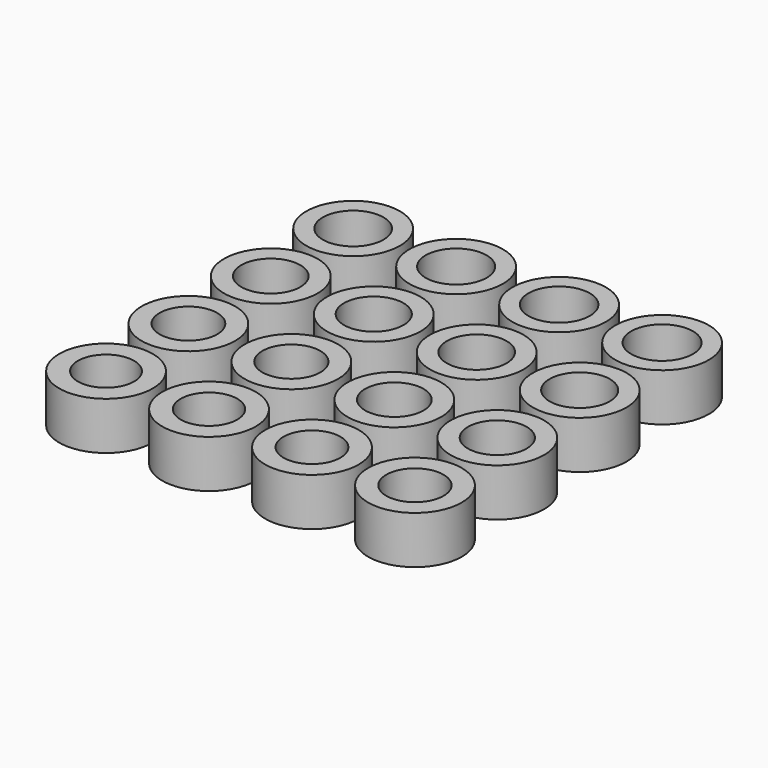
from build123d import *

# Parameters (mm, degrees)
F0_R     = 25
F0_R_2   = 15
F1_DEPTH = 25.5
F0_R_3   = 15.4
F0_R_4   = 15.8
F0_R_5   = 16.2
F0_R_6   = 15.5
F0_R_7   = 15.9
F0_R_8   = 16.3
F0_R_9   = 15.2
F0_R_10  = 15.6
F0_R_11  = 16
F0_R_12  = 16.4
F0_R_13  = 15.3
F0_R_14  = 15.7
F0_R_15  = 16.1
F0_R_16  = 16.5


with BuildPart() as f1:
    # F0 (on Top) → F1 (new body)
    with BuildSketch(Plane.XY):
        with Locations((-156.6073745489, 0)):
            Circle(F0_R)
        with Locations((-156.6073745489, 0)):
            Circle(F0_R_2, mode=Mode.SUBTRACT)
    extrude(amount=F1_DEPTH)


with BuildPart() as f1b:
    # F0 (on Top) → F1, piece 2 (new body)
    with BuildSketch(Plane.XY):
        with Locations((-156.6073745489, 55)):
            Circle(F0_R)
        with Locations((-156.6073745489, 55)):
            Circle(F0_R_3, mode=Mode.SUBTRACT)
    extrude(amount=F1_DEPTH)


with BuildPart() as f1c:
    # F0 (on Top) → F1, piece 3 (new body)
    with BuildSketch(Plane.XY):
        with Locations((-156.6073745489, 110)):
            Circle(F0_R)
        with Locations((-156.6073745489, 110)):
            Circle(F0_R_4, mode=Mode.SUBTRACT)
    extrude(amount=F1_DEPTH)


with BuildPart() as f1d:
    # F0 (on Top) → F1, piece 4 (new body)
    with BuildSketch(Plane.XY):
        with Locations((-156.6073745489, 165)):
            Circle(F0_R)
        with Locations((-156.6073745489, 165)):
            Circle(F0_R_5, mode=Mode.SUBTRACT)
    extrude(amount=F1_DEPTH)


with BuildPart() as f1e:
    # F0 (on Top) → F1, piece 5 (new body)
    with BuildSketch(Plane.XY):
        with Locations((-101.6073745489, 0)):
            Circle(F0_R)
        with BuildLine():
            ThreePointArc((-116.7073745489, 0), (-101.6073745489, 15.1), (-86.5073745489, 0))
            ThreePointArc((-86.5073745489, 0), (-101.6073745489, -15.1), (-116.7073745489, 0))
        make_face(mode=Mode.SUBTRACT)
    extrude(amount=F1_DEPTH)


with BuildPart() as f1f:
    # F0 (on Top) → F1, piece 6 (new body)
    with BuildSketch(Plane.XY):
        with Locations((-101.6073745489, 55)):
            Circle(F0_R)
        with Locations((-101.6073745489, 55)):
            Circle(F0_R_6, mode=Mode.SUBTRACT)
    extrude(amount=F1_DEPTH)


with BuildPart() as f1g:
    # F0 (on Top) → F1, piece 7 (new body)
    with BuildSketch(Plane.XY):
        with Locations((-101.6073745489, 110)):
            Circle(F0_R)
        with Locations((-101.6073745489, 110)):
            Circle(F0_R_7, mode=Mode.SUBTRACT)
    extrude(amount=F1_DEPTH)


with BuildPart() as f1h:
    # F0 (on Top) → F1, piece 8 (new body)
    with BuildSketch(Plane.XY):
        with Locations((-101.6073745489, 165)):
            Circle(F0_R)
        with Locations((-101.6073745489, 165)):
            Circle(F0_R_8, mode=Mode.SUBTRACT)
    extrude(amount=F1_DEPTH)


with BuildPart() as f1i:
    # F0 (on Top) → F1, piece 9 (new body)
    with BuildSketch(Plane.XY):
        with Locations((-46.6073745489, 0)):
            Circle(F0_R)
        with Locations((-46.6073745489, 0)):
            Circle(F0_R_9, mode=Mode.SUBTRACT)
    extrude(amount=F1_DEPTH)


with BuildPart() as f1j:
    # F0 (on Top) → F1, piece 10 (new body)
    with BuildSketch(Plane.XY):
        with Locations((-46.6073745489, 55)):
            Circle(F0_R)
        with Locations((-46.6073745489, 55)):
            Circle(F0_R_10, mode=Mode.SUBTRACT)
    extrude(amount=F1_DEPTH)


with BuildPart() as f1k:
    # F0 (on Top) → F1, piece 11 (new body)
    with BuildSketch(Plane.XY):
        with Locations((-46.6073745489, 110)):
            Circle(F0_R)
        with Locations((-46.6073745489, 110)):
            Circle(F0_R_11, mode=Mode.SUBTRACT)
    extrude(amount=F1_DEPTH)


with BuildPart() as f1l:
    # F0 (on Top) → F1, piece 12 (new body)
    with BuildSketch(Plane.XY):
        with Locations((-46.6073745489, 165)):
            Circle(F0_R)
        with Locations((-46.6073745489, 165)):
            Circle(F0_R_12, mode=Mode.SUBTRACT)
    extrude(amount=F1_DEPTH)


with BuildPart() as f1m:
    # F0 (on Top) → F1, piece 13 (new body)
    with BuildSketch(Plane.XY):
        with Locations((8.3926254511, 0)):
            Circle(F0_R)
        with Locations((8.3926254511, 0)):
            Circle(F0_R_13, mode=Mode.SUBTRACT)
    extrude(amount=F1_DEPTH)


with BuildPart() as f1n:
    # F0 (on Top) → F1, piece 14 (new body)
    with BuildSketch(Plane.XY):
        with Locations((8.3926254511, 55)):
            Circle(F0_R)
        with Locations((8.3926254511, 55)):
            Circle(F0_R_14, mode=Mode.SUBTRACT)
    extrude(amount=F1_DEPTH)


with BuildPart() as f1o:
    # F0 (on Top) → F1, piece 15 (new body)
    with BuildSketch(Plane.XY):
        with Locations((8.3926254511, 110)):
            Circle(F0_R)
        with Locations((8.3926254511, 110)):
            Circle(F0_R_15, mode=Mode.SUBTRACT)
    extrude(amount=F1_DEPTH)


with BuildPart() as f1p:
    # F0 (on Top) → F1, piece 16 (new body)
    with BuildSketch(Plane.XY):
        with Locations((8.3926254511, 165)):
            Circle(F0_R)
        with Locations((8.3926254511, 165)):
            Circle(F0_R_16, mode=Mode.SUBTRACT)
    extrude(amount=F1_DEPTH)


solid = Compound([f1.part, f1b.part, f1c.part, f1d.part, f1e.part, f1f.part, f1g.part, f1h.part, f1i.part, f1j.part, f1k.part, f1l.part, f1m.part, f1n.part, f1o.part, f1p.part])
